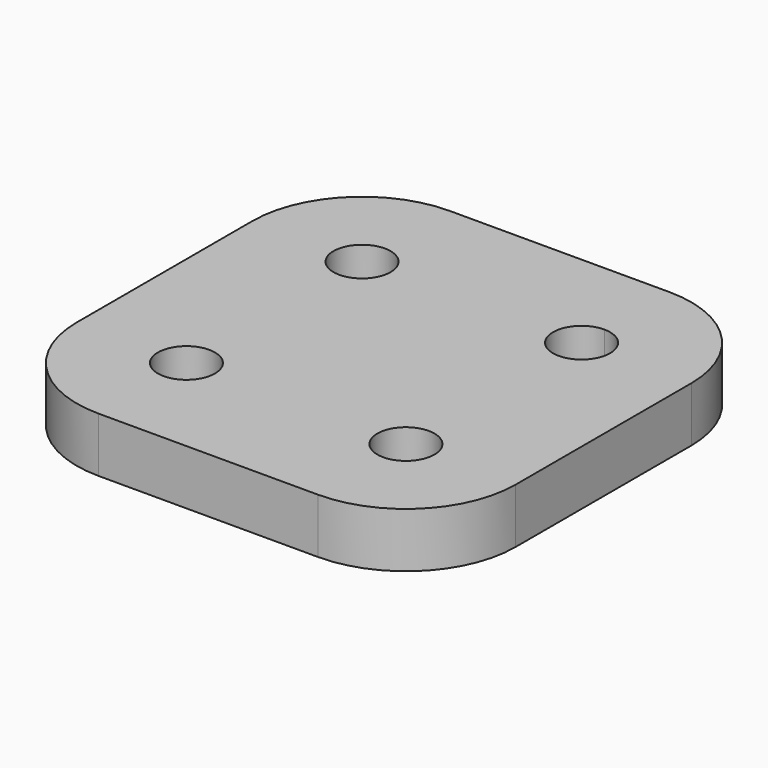
from build123d import *

# Parameters (mm, degrees)
F0_R     = 2.6
F1_DEPTH = 5
F2_R     = 10


with BuildPart() as f1:
    # F0 (on Top) → F1 (new body)
    with BuildSketch(Plane.XY):
        Polygon((20, -20), (20, 20), (10, 20), (-20, 20), (-20, -20), align=None)
        with Locations((-10, -10)):
            Circle(F0_R, mode=Mode.SUBTRACT)
        with Locations((10, -10)):
            Circle(F0_R, mode=Mode.SUBTRACT)
        with Locations((-10, 10)):
            Circle(F0_R, mode=Mode.SUBTRACT)
        with BuildLine():
            ThreePointArc((10, 7.4), (7.4, 10), (10, 12.6))
            ThreePointArc((10, 12.6), (11.838478, 11.838478), (12.6, 10))
            ThreePointArc((12.6, 10), (11.838478, 8.161522), (10, 7.4))
        make_face(mode=Mode.SUBTRACT)
    extrude(amount=F1_DEPTH)

    # F2
    f2_edges = [f1.edges().sort_by_distance(p)[0] for p in [
        (20, -20, 2.5),
        (20, 20, 2.5),
        (-20, -20, 2.5),
        (-20, 20, 2.5),
    ]]
    fillet(f2_edges, radius=F2_R)


solid = f1.part
